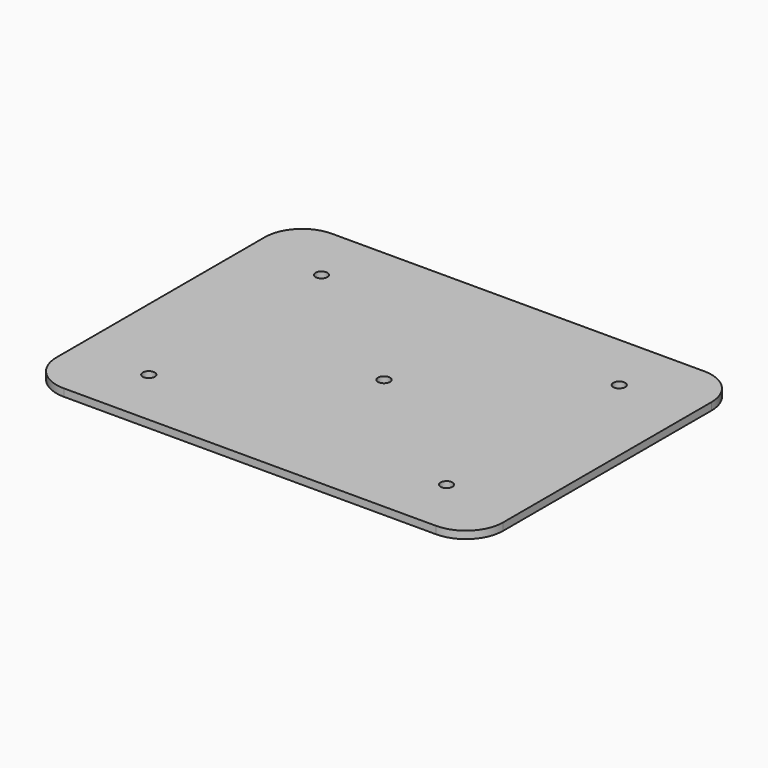
from build123d import *

# Parameters (mm, degrees)
F0_R     = 0.8
F1_DEPTH = 1


with BuildPart() as f1:
    # F0 (on Top) → F1 (new body)
    with BuildSketch(Plane.XY):
        with BuildLine():
            Line((24.782044, 21.802621), (-25.217956, 21.802621))
            ThreePointArc((-25.217956, 21.802621), (-28.75349, 20.338155), (-30.217956, 16.802621))
            Line((-30.217956, 16.802621), (-30.217956, -18.197379))
            ThreePointArc((-30.217956, -18.197379), (-28.75349, -21.732913), (-25.217956, -23.197379))
            Line((-25.217956, -23.197379), (24.782044, -23.197379))
            ThreePointArc((24.782044, -23.197379), (28.317578, -21.732913), (29.782044, -18.197379))
            Line((29.782044, -18.197379), (29.782044, 16.802621))
            ThreePointArc((29.782044, 16.802621), (28.317578, 20.338155), (24.782044, 21.802621))
        make_face()
        with Locations((-20.217956, -15.197379)):
            Circle(F0_R, mode=Mode.SUBTRACT)
        with Locations((19.782044, -15.197379)):
            Circle(F0_R, mode=Mode.SUBTRACT)
        with Locations((-20.217956, 13.802621)):
            Circle(F0_R, mode=Mode.SUBTRACT)
        with Locations((-0.217956, -0.697379)):
            Circle(F0_R, mode=Mode.SUBTRACT)
        with Locations((19.782044, 13.802621)):
            Circle(F0_R, mode=Mode.SUBTRACT)
    extrude(amount=F1_DEPTH)


solid = f1.part
